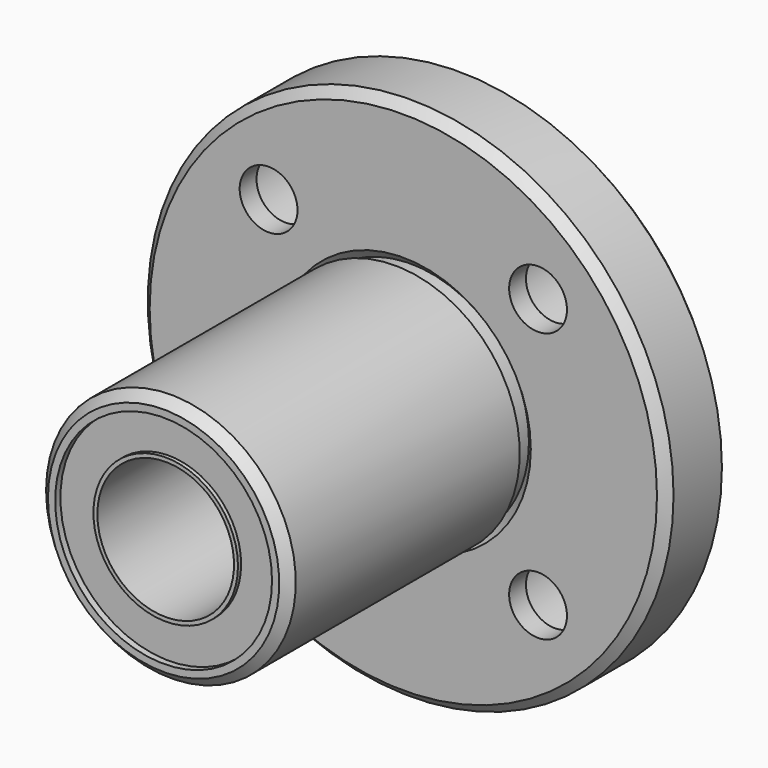
from build123d import *

# Parameters (mm, degrees)
F0_R           = 20
F0_R_2         = 9
F1_DEPTH       = 6
F4_SIZE        = 0.7
F6_D           = 4.4
F6_CBORE_D     = 7.6
F6_CBORE_DEPTH = 4.4
F7_SIZE        = 0.7
F8_R           = 9
F8_R_2         = 5.5
F9_DEPTH       = 0.7
F8_R_3         = 5.2
F10_DEPTH      = 0.4
F11_DEPTH      = 28.8
F12_R          = 8.25
F12_R_2        = 5.5
F13_DEPTH      = 0.5
F12_R_3        = 5.2
F14_DEPTH      = 0.2


with BuildPart() as f1:
    # F0 (on Front) → F1 (new body)
    with BuildSketch(Plane.XZ):
        Circle(F0_R)
        Circle(F0_R_2, mode=Mode.SUBTRACT)
    extrude(amount=-F1_DEPTH)

    # F4
    f4_edges = [f1.edges().sort_by_distance(p)[0] for p in [
        (20, 3, 0),
        (-20, 0, 0),
        (-20, 6, 0),
        (9, 3, 0),
        (-9, 0, 0),
        (-9, 6, 0),
    ]]
    chamfer(f4_edges, length=F4_SIZE)

    # F6 (through all)
    with Locations(Plane(origin=(0, 6, 0), x_dir=(-1, 0, 0), z_dir=(0, 1, 0))):
        with Locations((-10.25, 10.25), (10.25, 10.25), (10.25, -10.25), (-10.25, -10.25)):
            CounterBoreHole(F6_D / 2, F6_CBORE_D / 2, F6_CBORE_DEPTH)


with BuildPart() as f3:
    # F2 (on Top) → F3 (revolve)
    with BuildSketch(Plane.XY):
        Polygon((0, -22.8), (0, 6), (-9, 6), (-9, -0.8), (-9.5, -0.8), (-9.5, -22.8), align=None)
    revolve(axis=Axis((0, 15.3594217002, 0), (0, -1, 0)))

    # F7
    f7_edges = [f3.edges().sort_by_distance(p)[0] for p in [
        (9.5, -22.8, 0),
    ]]
    chamfer(f7_edges, length=F7_SIZE)

    # F8 (on face) → F9 (cut)
    with BuildSketch(Plane(origin=(0, 6, 0), x_dir=(-1, 0, 0), z_dir=(0, 1, 0))):
        Circle(F8_R)
        Circle(F8_R_2, mode=Mode.SUBTRACT)
    extrude(amount=-F9_DEPTH, mode=Mode.SUBTRACT)

    # F8 (on face) → F10 (cut)
    with BuildSketch(Plane(origin=(0, 6, 0), x_dir=(-1, 0, 0), z_dir=(0, 1, 0))):
        Circle(F8_R_2)
        Circle(F8_R_3, mode=Mode.SUBTRACT)
    extrude(amount=-F10_DEPTH, mode=Mode.SUBTRACT)

    # F8 (on face) → F11 (cut, through all)
    with BuildSketch(Plane(origin=(0, 6, 0), x_dir=(-1, 0, 0), z_dir=(0, 1, 0))):
        Circle(F8_R_3)
    extrude(amount=-F11_DEPTH, mode=Mode.SUBTRACT)

    # F12 (on face) → F13 (cut)
    with BuildSketch(Plane.XZ.offset(22.8)):
        Circle(F12_R)
        Circle(F12_R_2, mode=Mode.SUBTRACT)
    extrude(amount=-F13_DEPTH, mode=Mode.SUBTRACT)

    # F12 (on face) → F14 (cut)
    with BuildSketch(Plane.XZ.offset(22.8)):
        Circle(F12_R_2)
        Circle(F12_R_3, mode=Mode.SUBTRACT)
    extrude(amount=-F14_DEPTH, mode=Mode.SUBTRACT)


solid = Compound([f1.part, f3.part])
